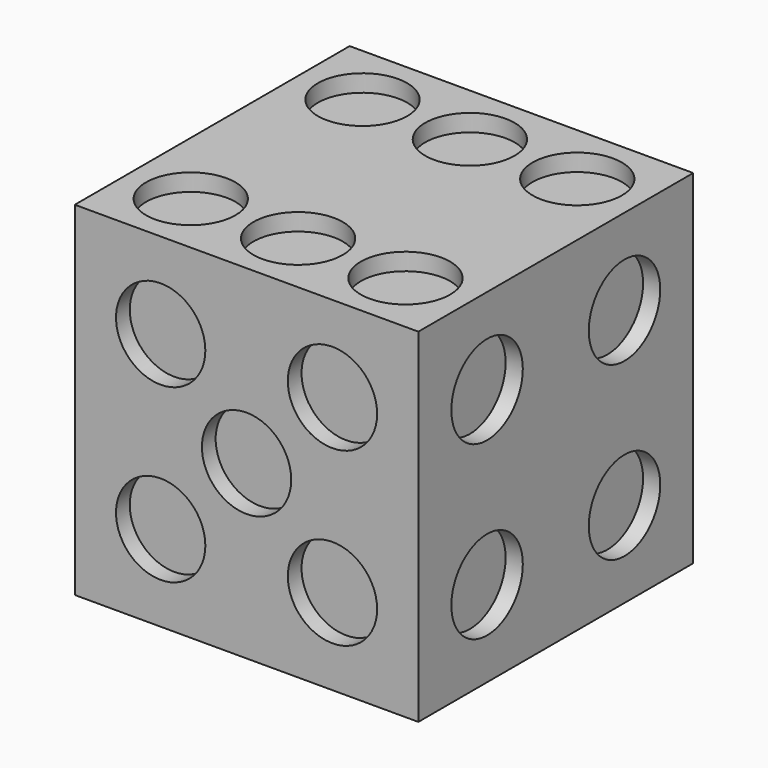
from build123d import *

# Parameters (mm, degrees)
F0_W      = 20
F0_H      = 20
F1_DEPTH  = 20
F2_R      = 2.6
F3_DEPTH  = 1
F4_R      = 2.6
F5_DEPTH  = 1
F6_R      = 2.6
F7_DEPTH  = 1
F8_R      = 2.6
F9_DEPTH  = 1
F10_R     = 2.6
F11_DEPTH = 1
F12_R     = 2.6
F13_DEPTH = 1


with BuildPart() as f1:
    # F0 (on Front) → F1 (new body)
    with BuildSketch(Plane.XZ):
        with Locations((-10, 10)):
            Rectangle(F0_W, F0_H)
    extrude(amount=F1_DEPTH)

    # F2 (on face) → F3 (cut)
    with BuildSketch(Plane.XZ.offset(20)):
        with Locations((-10, 10)):
            Circle(F2_R)
        with Locations((-15, 15)):
            Circle(F2_R)
        with Locations((-5, 15)):
            Circle(F2_R)
        with Locations((-15, 5)):
            Circle(F2_R)
        with Locations((-5, 5)):
            Circle(F2_R)
    extrude(amount=-F3_DEPTH, mode=Mode.SUBTRACT)

    # F4 (on face) → F5 (cut)
    with BuildSketch(Plane.YZ):
        with Locations((-15, 15)):
            Circle(F4_R)
        with Locations((-5, 15)):
            Circle(F4_R)
        with Locations((-15, 5)):
            Circle(F4_R)
        with Locations((-5, 5)):
            Circle(F4_R)
    extrude(amount=-F5_DEPTH, mode=Mode.SUBTRACT)

    # F6 (on face) → F7 (cut)
    with BuildSketch(Plane(origin=(-20, 0, 0), x_dir=(0, -1, 0), z_dir=(-1, 0, 0))):
        with Locations((10, 10)):
            Circle(F6_R)
        with Locations((15, 15)):
            Circle(F6_R)
        with Locations((5, 5)):
            Circle(F6_R)
    extrude(amount=-F7_DEPTH, mode=Mode.SUBTRACT)

    # F8 (on face) → F9 (cut)
    with BuildSketch(Plane(origin=(0, 0, 0), x_dir=(-1, 0, 0), z_dir=(0, 1, 0))):
        with Locations((5, 5)):
            Circle(F8_R)
        with Locations((15, 15)):
            Circle(F8_R)
    extrude(amount=-F9_DEPTH, mode=Mode.SUBTRACT)

    # F10 (on face) → F11 (cut)
    with BuildSketch(Plane(origin=(0, 0, 0), x_dir=(1, 0, 0), z_dir=(0, 0, -1))):
        with Locations((-10, 10)):
            Circle(F10_R)
    extrude(amount=-F11_DEPTH, mode=Mode.SUBTRACT)

    # F12 (on face) → F13 (cut)
    with BuildSketch(Plane.XY.offset(20)):
        with Locations((-3.75, -16.25)):
            Circle(F12_R)
        with Locations((-3.75, -3.75)):
            Circle(F12_R)
        with Locations((-16.25, -16.25)):
            Circle(F12_R)
        with Locations((-16.25, -3.75)):
            Circle(F12_R)
        with Locations((-10, -16.25)):
            Circle(F12_R)
        with Locations((-10, -3.75)):
            Circle(F12_R)
    extrude(amount=-F13_DEPTH, mode=Mode.SUBTRACT)


solid = f1.part
